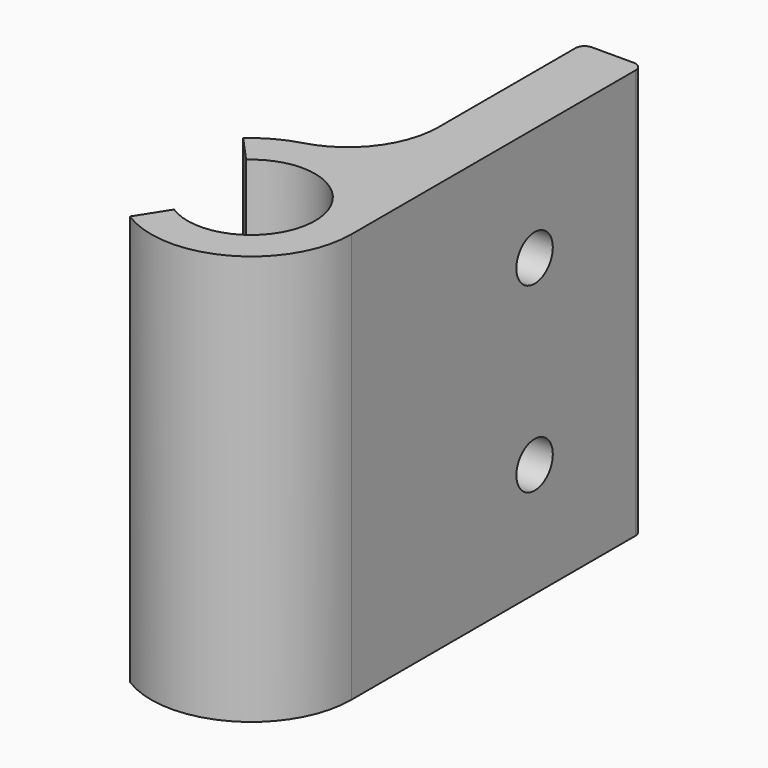
from build123d import *

# Parameters (mm, degrees)
F1_DEPTH = 45
F3_R     = 2.5
F4_DEPTH = 18.400401


with BuildPart() as f1:
    # F0 (on Top) → F1 (new body)
    with BuildSketch(Plane.XY):
        with BuildLine():
            ThreePointArc((-4.70871, 5.179581), (6.974404, 0.59807), (-3.758128, -5.90563))
            Line((-3.758128, -5.90563), (-5.90563, -9.280276))
            ThreePointArc((-5.90563, -9.280276), (5.293301, -9.642664), (11, 0))
            Line((11, 0), (11, 39))
            ThreePointArc((11, 39), (10.707107, 39.707107), (10, 40))
            Line((10, 40), (5.4, 40))
            ThreePointArc((5.4, 40), (4.692893, 39.707107), (4.4, 39))
            Line((4.4, 39), (4.4, 20.239565))
            ThreePointArc((4.4, 20.239565), (2.358224, 14.184265), (-2.933333, 10.601677))
            ThreePointArc((-2.933333, 10.601677), (-5.311038, 9.632906), (-7.399401, 8.139341))
            Line((-7.399401, 8.139341), (-4.70871, 5.179581))
        make_face()
    extrude(amount=F1_DEPTH)

    # F3 (on face) → F4 (cut, through all)
    with BuildSketch(Plane.YZ.offset(11)):
        with Locations((25.139775, 32.5)):
            Circle(F3_R)
        with Locations((25.139775, 12.5)):
            Circle(F3_R)
    extrude(amount=-F4_DEPTH, mode=Mode.SUBTRACT)


solid = f1.part
